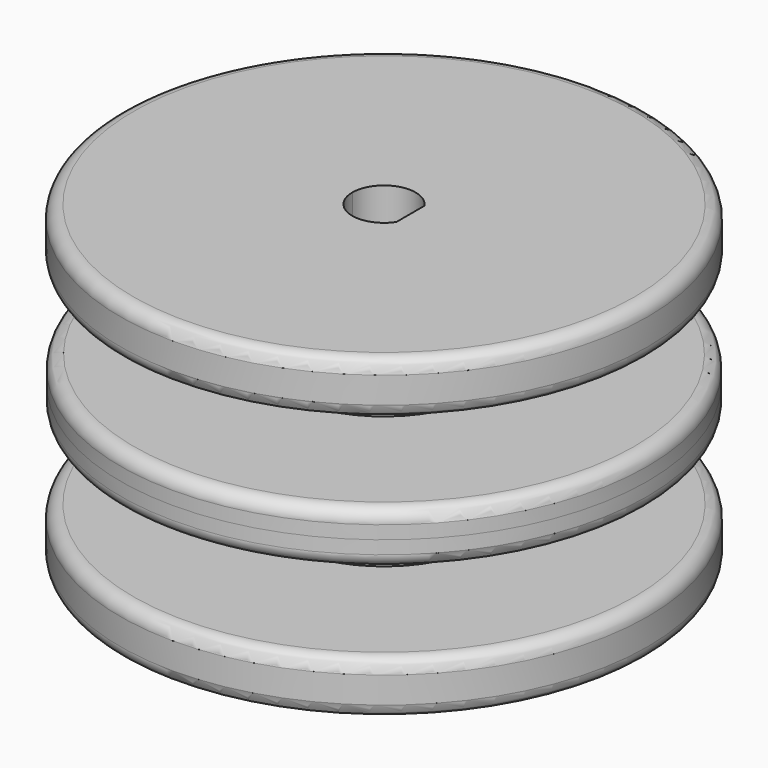
from build123d import *

# Parameters (mm, degrees)
F0_R     = 10
F0_R_2   = 4
F1_DEPTH = 2
F2_DEPTH = 6
F3_R     = 9.9794719686
F3_R_2   = 4
F4_DEPTH = 1
F7_R     = 0.5


with BuildPart() as f1:
    # F0 (on Top) → F1 (new body)
    with BuildSketch(Plane.XY):
        Circle(F0_R)
        Circle(F0_R_2, mode=Mode.SUBTRACT)
    extrude(amount=F1_DEPTH)

    # F0 (on Top) → F2 (join)
    with BuildSketch(Plane.XY):
        Circle(F0_R_2)
        with BuildLine():
            ThreePointArc((1, 0.6633249581), (1.1489125293, 0.3464101615), (1.2, 0))
            ThreePointArc((1.2, 0), (1.1489125293, -0.3464101615), (1, -0.6633249581))
            ThreePointArc((1, -0.6633249581), (-0.3464101615, -1.1489125293), (-1.2, 0))
            ThreePointArc((-1.2, 0), (-0.3464101615, 1.1489125293), (1, 0.6633249581))
        make_face(mode=Mode.SUBTRACT)
        with BuildLine():
            ThreePointArc((1, -0.6633249581), (1.1489125293, -0.3464101615), (1.2, 0))
            ThreePointArc((1.2, 0), (1.1489125293, 0.3464101615), (1, 0.6633249581))
            Line((1, 0.6633249581), (1, 0))
            Line((1, 0), (1, -0.6633249581))
        make_face()
    extrude(amount=F2_DEPTH)

    # F3 (on face) → F4 (join)
    with BuildSketch(Plane.XY.offset(6)):
        Circle(F3_R)
        Circle(F3_R_2, mode=Mode.SUBTRACT)
    extrude(amount=-F4_DEPTH)

    # F6: F1 across plane


with BuildPart() as f1_1:
    add(f1.part)
    add(f1.part.mirror(Plane.XY.offset(6)))

    # F7
    f7_edges = [f1_1.edges().sort_by_distance(p)[0] for p in [
        (-9.979472, 0, 7),
        (-9.979472, 0, 5),
        (-10, 0, 10),
        (-10, 0, 2),
        (-10, 0, 12),
        (-10, 0, 0),
    ]]
    fillet(f7_edges, radius=F7_R)


solid = f1_1.part
